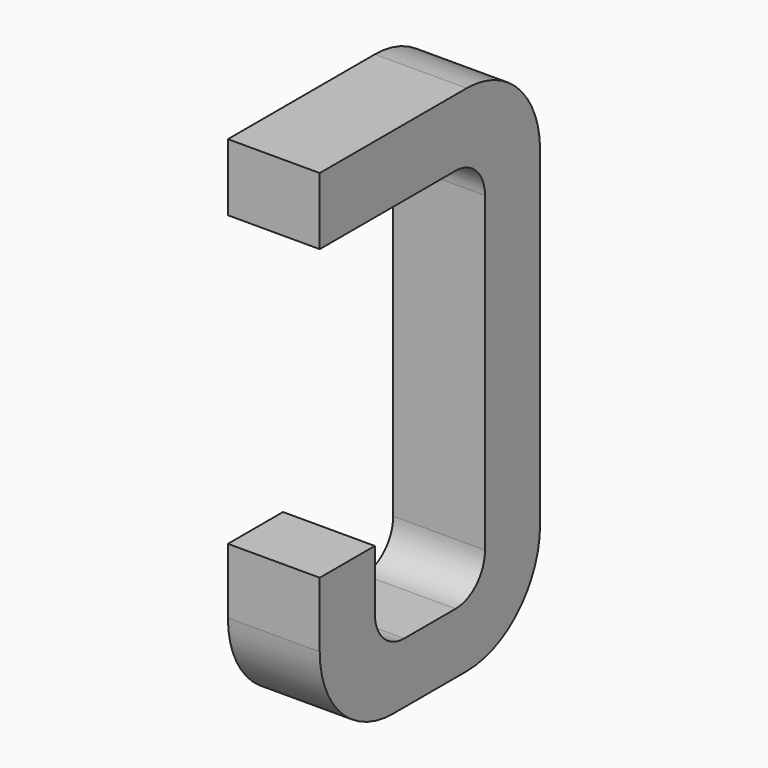
from build123d import *

# Parameters (mm, degrees)
BOX090_W     = 0.5
BOX090_H     = 1.5
BOX090_DEPTH = 2.795
FILLET195_R  = 0.5
FILLET214_R  = 0.5
FILLET204_R  = 0.5
BOX067_W     = 0.75
BOX067_H     = 2.1
BOX067_DEPTH = 1
FILLET139_R  = 0.2
FILLET215_R  = 0.2
FILLET211_R  = 0.2
FILLET203_R  = 0.2
BOX092_W     = 1
BOX092_H     = 1.575
BOX092_DEPTH = 3


with BuildPart() as part:
    # Box090 → Box090 (join)
    with BuildSketch(Plane(origin=(-0.25, 11.125, 0), x_dir=(1, 0, 0), z_dir=(0, 0, 1))):
        with Locations((0.25, 0.75)):
            Rectangle(BOX090_W, BOX090_H)
    extrude(amount=BOX090_DEPTH)

    # Fillet195
    fillet195_edges = [part.edges().sort_by_distance(p)[0] for p in [
        (0, 12.625, 0),
    ]]
    fillet(fillet195_edges, radius=FILLET195_R)

    # Fillet214
    fillet214_edges = [part.edges().sort_by_distance(p)[0] for p in [
        (0, 12.625, 2.795),
    ]]
    fillet(fillet214_edges, radius=FILLET214_R)

    # Fillet204
    fillet204_edges = [part.edges().sort_by_distance(p)[0] for p in [
        (0, 11.125, 0),
    ]]
    fillet(fillet204_edges, radius=FILLET204_R)

    # Box067 → Box067 (cut)
    with BuildSketch(Plane(origin=(-0.5, 11.5, 0.33), x_dir=(0, 1, 0), z_dir=(1, 0, 0))):
        with Locations((0.375, 1.05)):
            Rectangle(BOX067_W, BOX067_H)
    extrude(amount=BOX067_DEPTH, mode=Mode.SUBTRACT)

    # Fillet139
    fillet139_edges = [part.edges().sort_by_distance(p)[0] for p in [
        (0, 11.5, 0.33),
    ]]
    fillet(fillet139_edges, radius=FILLET139_R)

    # Fillet215
    fillet215_edges = [part.edges().sort_by_distance(p)[0] for p in [
        (0, 12.25, 0.33),
    ]]
    fillet(fillet215_edges, radius=FILLET215_R)

    # Fillet211
    fillet211_edges = [part.edges().sort_by_distance(p)[0] for p in [
        (0, 11.5, 2.43),
    ]]
    fillet(fillet211_edges, radius=FILLET211_R)

    # Fillet203
    fillet203_edges = [part.edges().sort_by_distance(p)[0] for p in [
        (0, 12.25, 2.43),
    ]]
    fillet(fillet203_edges, radius=FILLET203_R)

    # Box092 → Box092 (cut)
    with BuildSketch(Plane(origin=(-1, 11, 0.855), x_dir=(0, 1, 0), z_dir=(1, 0, 0))):
        with Locations((0.5, 0.7875)):
            Rectangle(BOX092_W, BOX092_H)
    extrude(amount=BOX092_DEPTH, mode=Mode.SUBTRACT)


with BuildPart() as part_1:
    # Body030 placement: moved
    add(part.part.moved(Location((-3.81, 0, 0))))


solid = part_1.part
